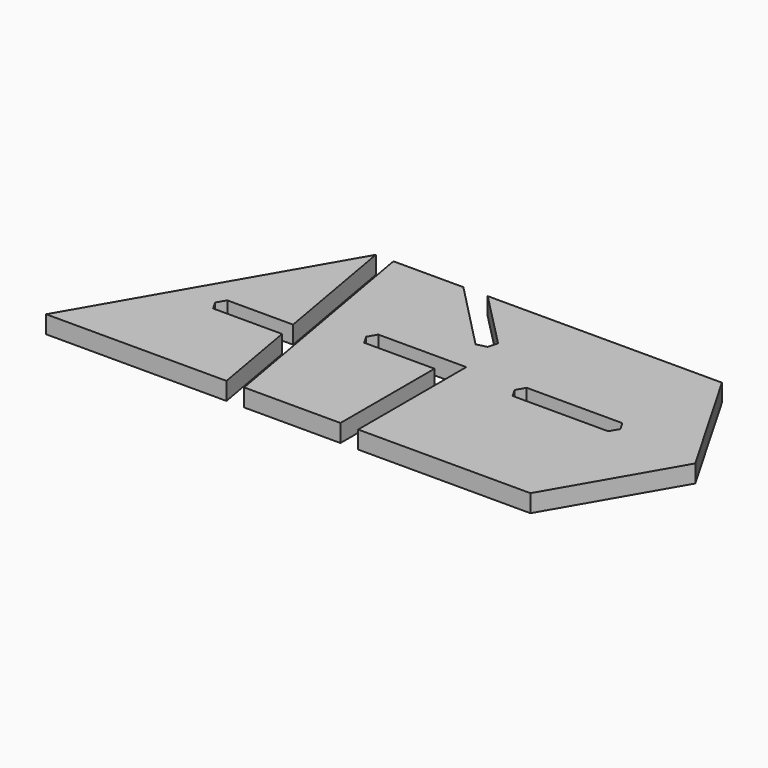
from build123d import *

# Parameters (mm, degrees)
F1_DEPTH = 2


with BuildPart() as f1:
    # F0 (on Top) → F1 (new body)
    with BuildSketch(Plane.XY):
        Polygon((-17.264818, 12.716242), (-12.486297, -14.384092), (-1.580196, -14.384092), (-1.580196, -1.073903), (-9.546066, -1.073903), (-10.123416, -0.073903), (-9.546066, 0.926097), (0.419804, 0.926097), (0.419804, -14.384092), (19.928842, -14.384092), (27.752034, -0.833925), (19.928842, 12.716242), (-6.591862, 12.716242), (-0.226701, 6.231545), (-0.535331, 5.121141), (-1.658654, 4.835296), (-9.343094, 12.716242), align=None)
        Polygon((18.466761, 0.166075), (17.889411, -0.833925), (7.065362, -0.833925), (6.488011, 0.166075), (7.065362, 1.166075), (17.889411, 1.166075), align=None, mode=Mode.SUBTRACT)
        Polygon((-19.264818, 12.716242), (-34.911203, -14.384092), (-14.486297, -14.384092), (-16.265065, -4.296201), (-24.065312, -4.296201), (-24.642662, -3.296201), (-24.065312, -2.296201), (-16.617719, -2.296201), align=None)
    extrude(amount=F1_DEPTH)


solid = f1.part
